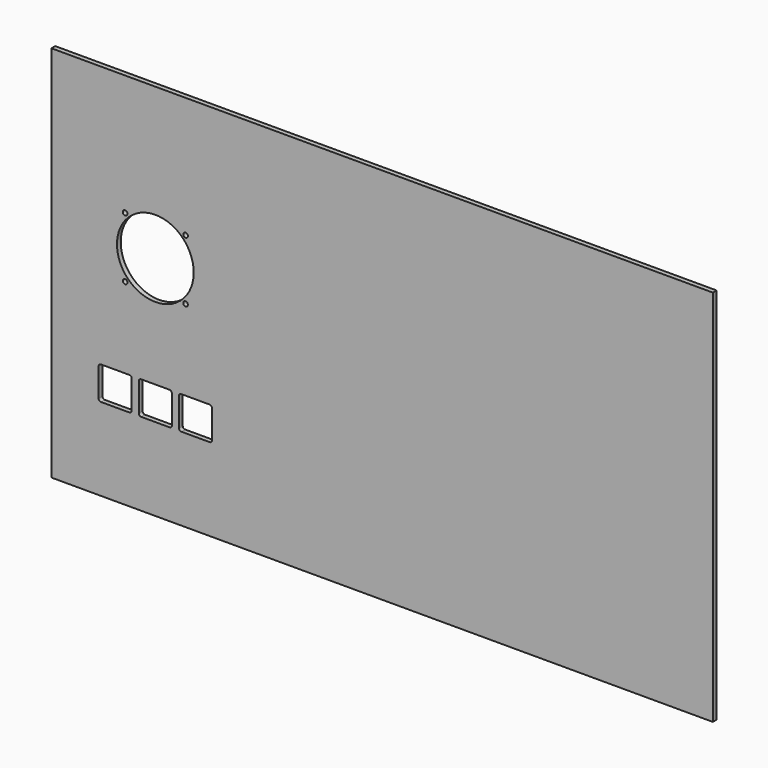
from build123d import *

# Parameters (mm, degrees)
F0_W     = 355.6
F0_H     = 203.2
F0_R     = 1.25
F0_R_2   = 20.6375
F1_DEPTH = 2.54


with BuildPart() as f1:
    # F0 (on Front) → F1 (new body)
    with BuildSketch(Plane.XZ):
        with Locations((177.8, 101.6)):
            Rectangle(F0_W, F0_H)
        with BuildLine():
            Line((26.67, 62.23), (41.91, 62.23))
            ThreePointArc((41.91, 62.23), (42.808026, 61.858026), (43.18, 60.96))
            Line((43.18, 60.96), (43.18, 45.72))
            ThreePointArc((43.18, 45.72), (42.808026, 44.821974), (41.91, 44.45))
            Line((41.91, 44.45), (26.67, 44.45))
            ThreePointArc((26.67, 44.45), (25.771974, 44.821974), (25.4, 45.72))
            Line((25.4, 45.72), (25.4, 60.96))
            ThreePointArc((25.4, 60.96), (25.771974, 61.858026), (26.67, 62.23))
        make_face(mode=Mode.SUBTRACT)
        with BuildLine():
            Line((48.26, 62.23), (63.5, 62.23))
            ThreePointArc((63.5, 62.23), (64.398026, 61.858026), (64.77, 60.96))
            Line((64.77, 60.96), (64.77, 45.72))
            ThreePointArc((64.77, 45.72), (64.398026, 44.821974), (63.5, 44.45))
            Line((63.5, 44.45), (48.26, 44.45))
            ThreePointArc((48.26, 44.45), (47.361974, 44.821974), (46.99, 45.72))
            Line((46.99, 45.72), (46.99, 60.96))
            ThreePointArc((46.99, 60.96), (47.361974, 61.858026), (48.26, 62.23))
        make_face(mode=Mode.SUBTRACT)
        with BuildLine():
            Line((69.85, 62.23), (85.09, 62.23))
            ThreePointArc((85.09, 62.23), (85.988026, 61.858026), (86.36, 60.96))
            Line((86.36, 60.96), (86.36, 45.72))
            ThreePointArc((86.36, 45.72), (85.988026, 44.821974), (85.09, 44.45))
            Line((85.09, 44.45), (69.85, 44.45))
            ThreePointArc((69.85, 44.45), (68.951974, 44.821974), (68.58, 45.72))
            Line((68.58, 45.72), (68.58, 60.96))
            ThreePointArc((68.58, 60.96), (68.951974, 61.858026), (69.85, 62.23))
        make_face(mode=Mode.SUBTRACT)
        with Locations((39.624, 105.664)):
            Circle(F0_R, mode=Mode.SUBTRACT)
        with Locations((72.136, 105.664)):
            Circle(F0_R, mode=Mode.SUBTRACT)
        with Locations((55.88, 121.92)):
            Circle(F0_R_2, mode=Mode.SUBTRACT)
        with Locations((39.624, 138.176)):
            Circle(F0_R, mode=Mode.SUBTRACT)
        with Locations((72.136, 138.176)):
            Circle(F0_R, mode=Mode.SUBTRACT)
    extrude(amount=F1_DEPTH)


solid = f1.part
